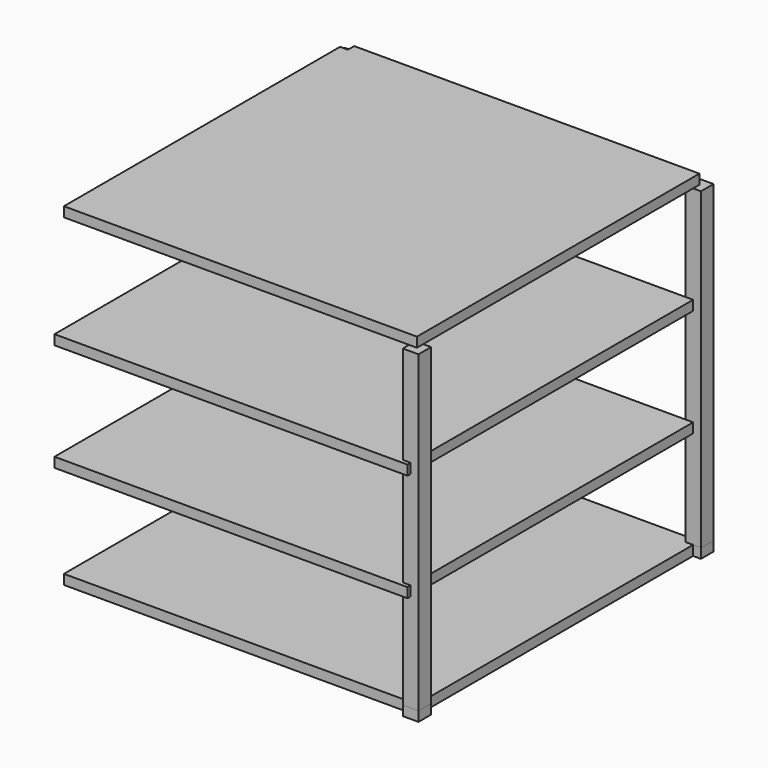
from build123d import *

# Parameters (mm, degrees)
F0_W     = 20
F0_H     = 20
F1_DEPTH = 825
F2_DEPTH = 25
F4_DEPTH = 25
F5_W     = 880
F5_H     = 25
F5_W_2   = 20
F6_DEPTH = 910


with BuildPart() as f1:
    # F0 (on Top) → F1 (new body)
    with BuildSketch(Plane.XY):
        Polygon((430, 470), (430, 450), (450, 450), (450, 430), (470, 430), (470, 470), align=None)
        with Locations((440, 440)):
            Rectangle(F0_W, F0_H)
    extrude(amount=F1_DEPTH)


with BuildPart() as f1b:
    # F0 (on Top) → F1, piece 2 (new body)
    with BuildSketch(Plane.XY):
        Polygon((-450, 430), (-450, 450), (-430, 450), (-430, 470), (-470, 470), (-470, 430), align=None)
        with Locations((-440, 440)):
            Rectangle(F0_W, F0_H)
    extrude(amount=F1_DEPTH)


with BuildPart() as f1c:
    # F0 (on Top) → F1, piece 3 (new body)
    with BuildSketch(Plane.XY):
        Polygon((450, -450), (430, -450), (430, -470), (470, -470), (470, -430), (450, -430), align=None)
        with Locations((440, -440)):
            Rectangle(F0_W, F0_H)
    extrude(amount=F1_DEPTH)


with BuildPart() as f2:
    # F0 (on Top) → F2 (new body)
    with BuildSketch(Plane.XY):
        Polygon((-450, 430), (-450, 450), (-430, 450), (-430, 470), (-470, 470), (-470, 430), align=None)
        with Locations((-440, 440)):
            Rectangle(F0_W, F0_H)
        Polygon((430, 450), (-430, 450), (-430, 430), (-450, 430), (-450, -450), (430, -450), (430, -430), (450, -430), (450, 430), (430, 430), align=None)
        Polygon((430, 470), (430, 450), (450, 450), (450, 430), (470, 430), (470, 470), align=None)
        with Locations((440, 440)):
            Rectangle(F0_W, F0_H)
        with Locations((440, -440)):
            Rectangle(F0_W, F0_H)
        Polygon((450, -450), (430, -450), (430, -470), (470, -470), (470, -430), (450, -430), align=None)
    extrude(amount=F2_DEPTH)


with BuildPart() as f4:
    # F3 (on face) → F4 (new body)
    with BuildSketch(Plane.XY.offset(825)):
        Polygon((450, 450), (-430, 450), (-430, 430), (-450, 430), (-450, -450), (450, -450), align=None)
    extrude(amount=F4_DEPTH)


with BuildPart() as f6:
    # F5 (on face) → F6 (new body)
    with BuildSketch(Plane.XZ.offset(-430)):
        with Locations((10, 562.5)):
            Rectangle(F5_W, F5_H)
        with Locations((-440, 562.5)):
            Rectangle(F5_W_2, F5_H)
    extrude(amount=F6_DEPTH)


with BuildPart() as f6b:
    # F5 (on face) → F6, piece 2 (new body)
    with BuildSketch(Plane.XZ.offset(-430)):
        with Locations((10, 287.5)):
            Rectangle(F5_W, F5_H)
        with Locations((-440, 287.5)):
            Rectangle(F5_W_2, F5_H)
    extrude(amount=F6_DEPTH)


solid = Compound([f1.part, f1b.part, f1c.part, f2.part, f4.part, f6.part, f6b.part])
